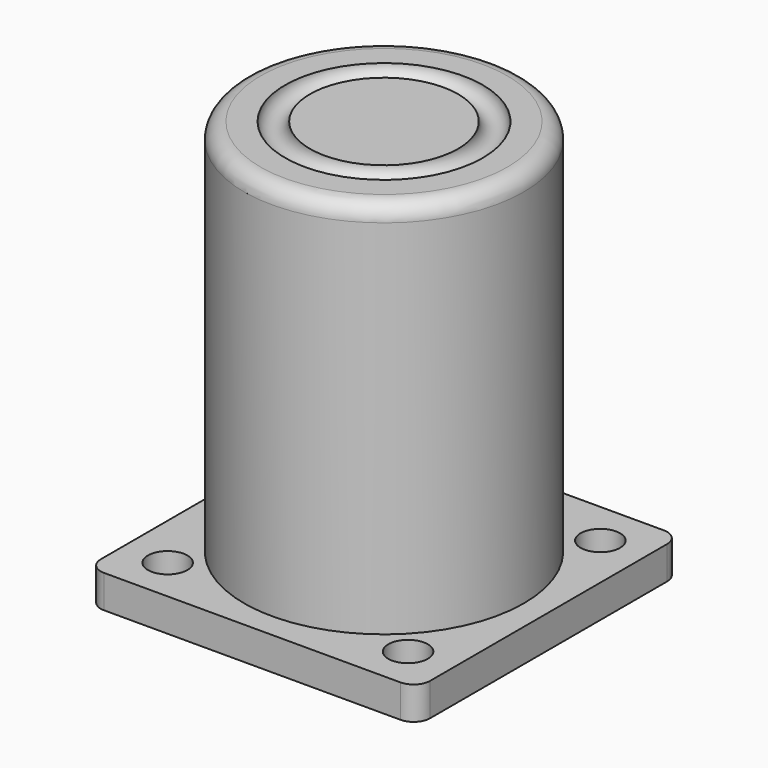
from build123d import *

# Parameters (mm, degrees)
CYLINDER_R        = 2.4
CYLINDER_DEPTH    = 10
ARRAY_X_COUNT     = 2
ARRAY_X_PITCH     = 29.2
ARRAY_Y_COUNT     = 2
ARRAY_Y_PITCH     = 29.2
BOX_W             = 40
BOX_H             = 40
BOX_DEPTH         = 4
FILLET_R          = 2
TORUS_R           = 1.5
CYLINDER001_R     = 17
CYLINDER001_DEPTH = 50
FILLET001_R       = 2


with BuildPart() as taladros_vector:
    # Cylinder → Cylinder (new body)
    with BuildSketch(Plane(origin=(5.4, 5.4, 0), x_dir=(1, 0, 0), z_dir=(0, 0, 1))):
        Circle(CYLINDER_R)
    extrude(amount=CYLINDER_DEPTH)

    # Array X: taladros_vector ×2


with BuildPart() as taladros_vector_1:
    add(taladros_vector.part)
    with Locations(*[(i * ARRAY_X_PITCH, 0, 0) for i in range(1, ARRAY_X_COUNT)]):
        add(taladros_vector.part)

    # Array Y: taladros_vector ×2


with BuildPart() as taladros_vector_2:
    add(taladros_vector_1.part)
    with Locations(*[(0, i * ARRAY_Y_PITCH, 0) for i in range(1, ARRAY_Y_COUNT)]):
        add(taladros_vector_1.part)


with BuildPart() as taladros_vector_3:
    # Array placement: moved
    add(taladros_vector_2.part.moved(Location((0, 0, -3))))


with BuildPart() as obj1:
    # Box → Box (new body)
    with BuildSketch(Plane.XY):
        with Locations((20, 20)):
            Rectangle(BOX_W, BOX_H)
    extrude(amount=BOX_DEPTH)

    # Fillet
    fillet_edges = [obj1.edges().sort_by_distance(p)[0] for p in [
        (0, 0, 2),
        (0, 40, 2),
        (40, 0, 2),
        (40, 40, 2),
    ]]
    fillet(fillet_edges, radius=FILLET_R)

    # Cut: cut taladros_vector
    add(taladros_vector_3.part, mode=Mode.SUBTRACT)


with BuildPart() as obj2:
    # Torus → Torus (revolve)
    with BuildSketch(Plane(origin=(0, 0, 50), x_dir=(1, 0, 0), z_dir=(0, -1, 0))):
        with Locations((10.5, 0)):
            Circle(TORUS_R)
    revolve(axis=Axis((0, 0, 50), (0, 0, 1)))


with BuildPart() as obj3:
    # Cylinder001 → Cylinder001 (new body)
    with BuildSketch(Plane.XY):
        Circle(CYLINDER001_R)
    extrude(amount=CYLINDER001_DEPTH)

    # Fillet001
    fillet001_edges = [obj3.edges().sort_by_distance(p)[0] for p in [
        (-17, 0, 50),
    ]]
    fillet(fillet001_edges, radius=FILLET001_R)

    # Cut001: cut obj2
    add(obj2.part, mode=Mode.SUBTRACT)


with BuildPart() as obj3_1:
    # Cut001 placement: moved
    add(obj3.part.moved(Location((20, 20, 0))))

    # Fusion: union obj1
    add(obj1.part)


solid = obj3_1.part
